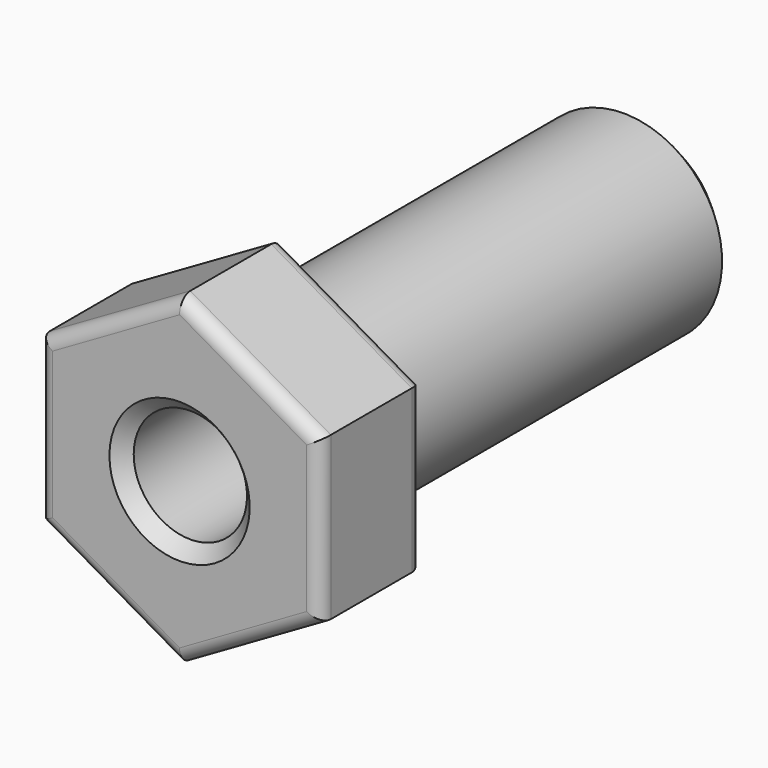
from build123d import *

# Parameters (mm, degrees)
F1_DEPTH = 7.239
F2_R     = 0.762
F3_R     = 5.55625
F4_DEPTH = 25.4
F5_SIZE  = 1.27
F6_R     = 3.2004
F7_DEPTH = 50.8
F8_SIZE  = 0.762


with BuildPart() as f1:
    # F0 (on Front) → F1 (new body)
    with BuildSketch(Plane.XZ):
        Polygon((-7.9375, 4.582718), (-7.9375, -4.582718), (0, -9.165436), (7.9375, -4.582718), (7.9375, 4.582718), (0, 9.165436), align=None)
    extrude(amount=F1_DEPTH)

    # F2
    f2_edges = [f1.edges().sort_by_distance(p)[0] for p in [
        (-3.96875, -7.239, 6.874077),
        (-7.9375, -7.239, 0),
        (-3.96875, -7.239, -6.874077),
        (3.96875, -7.239, -6.874077),
        (7.9375, -7.239, 0),
        (3.96875, -7.239, 6.874077),
        (-3.96875, 0, 6.874077),
        (-7.9375, 0, 0),
        (-3.96875, 0, -6.874077),
        (3.96875, 0, -6.874077),
        (7.9375, 0, 0),
        (3.96875, 0, 6.874077),
    ]]
    fillet(f2_edges, radius=F2_R)


with BuildPart() as f4:
    # F3 (on face) → F4 (new body)
    with BuildSketch(Plane(origin=(0, 0, 0), x_dir=(-1, 0, 0), z_dir=(0, 1, 0))):
        Circle(F3_R)
    extrude(amount=F4_DEPTH)

    # F5
    f5_edges = [f4.edges().sort_by_distance(p)[0] for p in [
        (5.55625, 25.4, 0),
    ]]
    chamfer(f5_edges, length=F5_SIZE)


with BuildPart() as f7_tool:
    # F6 (on face) → F7 (new body)
    with BuildSketch(Plane(origin=(0, 25.4, 0), x_dir=(-1, 0, 0), z_dir=(0, 1, 0))):
        Circle(F6_R)
    extrude(amount=-F7_DEPTH)


with BuildPart() as f1_1:
    add(f1.part)

    # F7: cut by f7_tool
    add(f7_tool.part, mode=Mode.SUBTRACT)

    # F8
    f8_edges = [f1_1.edges().sort_by_distance(p)[0] for p in [
        (3.2004, -7.239, 0),
    ]]
    chamfer(f8_edges, length=F8_SIZE)


with BuildPart() as f4_1:
    add(f4.part)

    # F7: cut by f7_tool
    add(f7_tool.part, mode=Mode.SUBTRACT)


solid = Compound([f1_1.part, f4_1.part])
